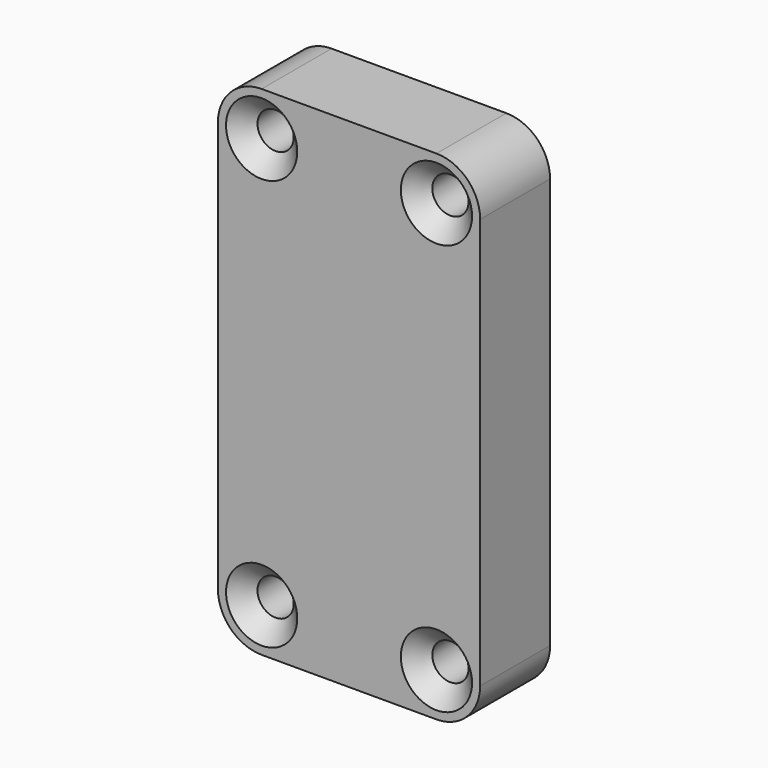
from build123d import *

# Parameters (mm, degrees)
F0_W          = 30
F0_H          = 57
F1_DEPTH      = 5
F1_DEPTH_BACK = 5
F2_R          = 5
F3_R          = 2.074
F4_DEPTH      = 10.001
F5_SIZE       = 2


with BuildPart() as f1:
    # F0 (on Front) → F1 (new body, two sides)
    with BuildSketch(Plane.XZ) as f1_sk:
        Rectangle(F0_W, F0_H)
    extrude(amount=F1_DEPTH)
    extrude(f1_sk.sketch, amount=-F1_DEPTH_BACK)

    # F2
    f2_edges = [f1.edges().sort_by_distance(p)[0] for p in [
        (-15, 0, 28.5),
        (15, 0, 28.5),
        (-15, 0, -28.5),
        (15, 0, -28.5),
    ]]
    fillet(f2_edges, radius=F2_R)

    # F3 (on face) → F4 (cut, through all)
    with BuildSketch(Plane.XZ.offset(5)):
        with Locations((-10, 23.5)):
            Circle(F3_R)
        with Locations((10, 23.5)):
            Circle(F3_R)
        with Locations((-10, -23.5)):
            Circle(F3_R)
        with Locations((10, -23.5)):
            Circle(F3_R)
    extrude(amount=-F4_DEPTH, mode=Mode.SUBTRACT)

    # F5
    f5_edges = [f1.edges().sort_by_distance(p)[0] for p in [
        (-12.074, -5, 23.5),
        (7.926, -5, 23.5),
        (-12.074, -5, -23.5),
        (7.926, -5, -23.5),
    ]]
    chamfer(f5_edges, length=F5_SIZE)


solid = f1.part
